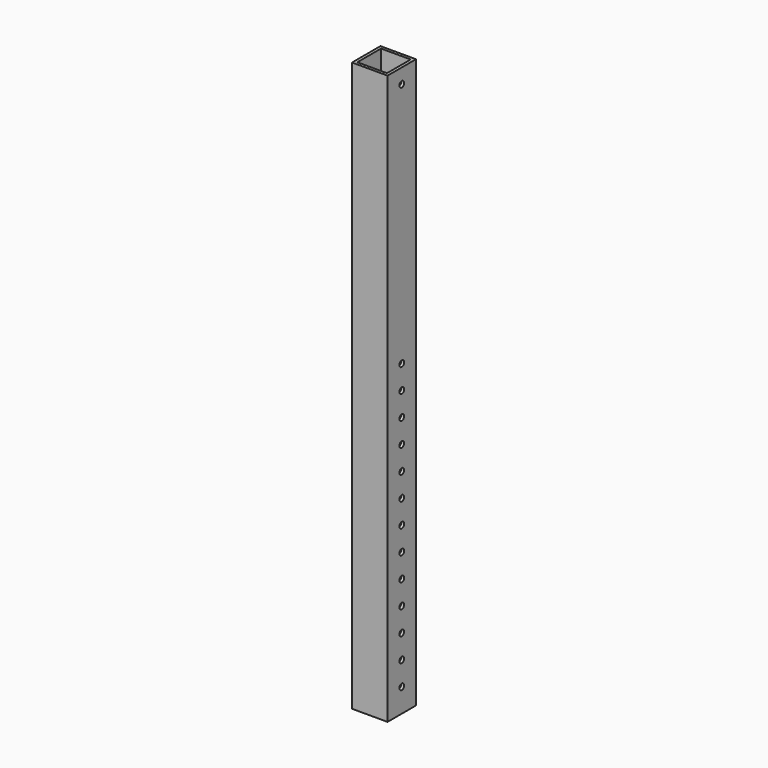
from build123d import *

# Parameters (mm, degrees)
F0_W     = 38.1
F0_H     = 38.1
F0_W_2   = 31.75
F0_H_2   = 31.75
F1_DEPTH = 304.8
F2_R     = 3.175
F3_DEPTH = 22.225


with BuildPart() as f1:
    # F0 (on Top) → F1 (new body, symmetric)
    with BuildSketch(Plane.XY):
        Rectangle(F0_W, F0_H)
        Rectangle(F0_W_2, F0_H_2, mode=Mode.SUBTRACT)
    extrude(amount=F1_DEPTH, both=True)

    # F2 (on Right) → F3 (cut, symmetric)
    with BuildSketch(Plane.YZ):
        with Locations((0, -177.8)):
            Circle(F2_R)
        with Locations((0, -203.2)):
            Circle(F2_R)
        with Locations((0, -228.6)):
            Circle(F2_R)
        with Locations((0, -254)):
            Circle(F2_R)
        with Locations((0, -279.4)):
            Circle(F2_R)
        with Locations((0, -152.4)):
            Circle(F2_R)
        with BuildLine():
            Line((-3.175, -127), (3.175, -127))
            ThreePointArc((3.175, -127), (0, -123.825), (-3.175, -127))
        make_face()
        with BuildLine():
            ThreePointArc((-3.175, -127), (0, -130.175), (3.175, -127))
            Line((3.175, -127), (-3.175, -127))
        make_face()
        with Locations((0, -101.6)):
            Circle(F2_R)
        with Locations((0, 25.4)):
            Circle(F2_R)
        with Locations((0, -50.8)):
            Circle(F2_R)
        Circle(F2_R)
        with Locations((0, -25.4)):
            Circle(F2_R)
        with Locations((0, -76.2)):
            Circle(F2_R)
        with Locations((0, 288.925)):
            Circle(F2_R)
    extrude(amount=F3_DEPTH, both=True, mode=Mode.SUBTRACT)


solid = f1.part
